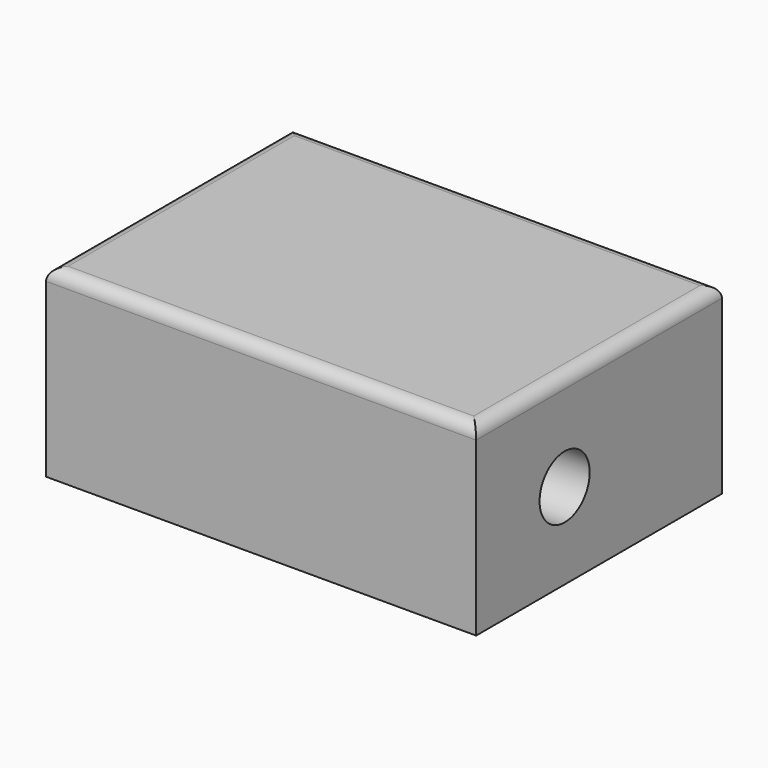
from build123d import *

# Parameters (mm, degrees)
F2_DEPTH = 150
F3_W     = 260
F3_H     = 190
F4_DEPTH = 120
F5_R     = 25.5
F6_DEPTH = 300
F7_R     = 10
F8_W     = 100
F8_H     = 70
F8_R     = 25.5
F9_DEPTH = 5
F10_SIZE = 20


with BuildPart() as f2:
    # F1 (on Top) → F2 (new body)
    with BuildSketch(Plane.XY):
        Polygon((173, -125), (175, -125), (175, 125), (-175, 125), (-175, -125), align=None)
    extrude(amount=-F2_DEPTH)

    # F3 (on face) → F4 (cut)
    with BuildSketch(Plane(origin=(0, 0, -150), x_dir=(1, 0, 0), z_dir=(0, 0, -1))):
        with Locations((5, 0)):
            Rectangle(F3_W, F3_H)
    extrude(amount=-F4_DEPTH, mode=Mode.SUBTRACT)

    # F5 (on face) → F6 (cut, through all)
    with BuildSketch(Plane.YZ.offset(175)):
        with Locations((-35, -80)):
            Circle(F5_R)
    extrude(amount=-F6_DEPTH, mode=Mode.SUBTRACT)

    # F7
    f7_edges = [f2.edges().sort_by_distance(p)[0] for p in [
        (0, -125, 0),
        (-175, 0, 0),
        (0, 125, 0),
        (175, 0, 0),
    ]]
    fillet(f7_edges, radius=F7_R)

    # F8 (on face) → F9 (join)
    with BuildSketch(Plane.YZ.offset(-125)):
        with Locations((-35, -80)):
            Rectangle(F8_W, F8_H)
        with Locations((-35, -80)):
            Circle(F8_R, mode=Mode.SUBTRACT)
    extrude(amount=F9_DEPTH)

    # F10
    f10_edges = [f2.edges().sort_by_distance(p)[0] for p in [
        (-122.5, -85, -115),
        (-122.5, -85, -45),
        (-122.5, 15, -115),
        (-122.5, 15, -45),
    ]]
    chamfer(f10_edges, length=F10_SIZE)


solid = f2.part
